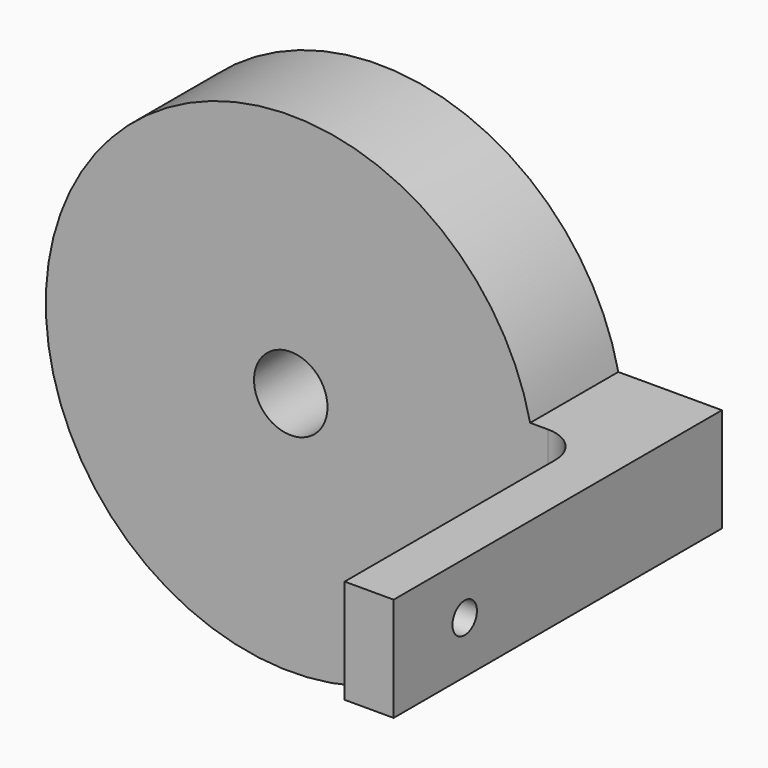
from build123d import *

# Parameters (mm, degrees)
F0_R     = 20
F1_DEPTH = 9
F2_R     = 3
F3_DEPTH = 9.001
F5_DEPTH = 4.25
F6_R     = 1.25
F7_DEPTH = 28.001


with BuildPart() as f1:
    # F0 (on Front) → F1 (new body)
    with BuildSketch(Plane.XZ):
        Circle(F0_R)
    extrude(amount=F1_DEPTH)

    # F2 (on face) → F3 (cut, through all)
    with BuildSketch(Plane.XZ.offset(9)):
        Circle(F2_R)
    extrude(amount=-F3_DEPTH, mode=Mode.SUBTRACT)

    # F4 (on Top) → F5 (join, symmetric)
    with BuildSketch(Plane.XY):
        with BuildLine():
            Line((15.483786, -9), (20, -9))
            Line((20, -9), (21, -9))
            ThreePointArc((21, -9), (23.12132, -9.87868), (24, -12))
            Line((24, -12), (24, -33.5))
            Line((24, -33.5), (28, -33.5))
            Line((28, -33.5), (28, -9))
            Line((28, -9), (28, 0))
            Line((28, 0), (20, 0))
            Line((20, 0), (15.483786, 0))
            Line((15.483786, 0), (15.483786, -9))
        make_face()
    extrude(amount=F5_DEPTH, both=True)

    # F6 (on Right) → F7 (cut, through all)
    with BuildSketch(Plane.YZ):
        with Locations((-26.25, 0)):
            Circle(F6_R)
    extrude(amount=F7_DEPTH, mode=Mode.SUBTRACT)


solid = f1.part
